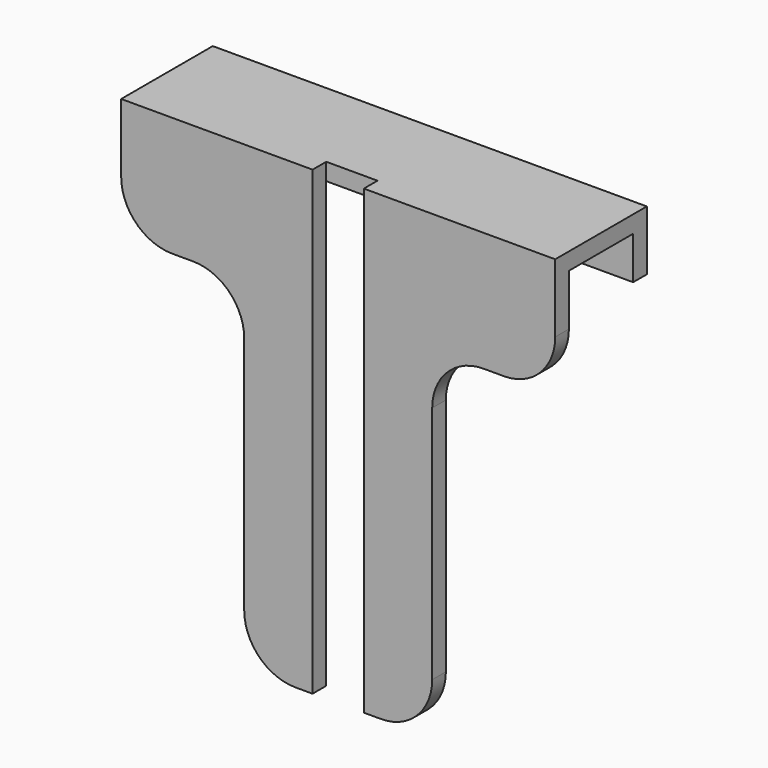
from build123d import *

# Parameters (mm, degrees)
F1_DEPTH = 12.7
F2_W     = 3
F2_H     = 27
F2_W_2   = 7.2
F2_H_2   = 20
F3_DEPTH = 1
F4_R     = 3


with BuildPart() as f1:
    # F0 (on Right) → F1 (new body, symmetric)
    with BuildSketch(Plane.YZ):
        Polygon((6.7, 0), (0, 0), (0, -27), (1, -27), (1, -1), (5.7, -1), (5.7, -3.5), (6.7, -3.5), align=None)
    extrude(amount=F1_DEPTH, both=True)

    # F2 (on face) → F3 (cut, through all)
    with BuildSketch(Plane.XZ):
        with Locations((0, -13.5)):
            Rectangle(F2_W, F2_H)
        with Locations((-9.1, -17)):
            Rectangle(F2_W_2, F2_H_2)
        with Locations((9.1, -17)):
            Rectangle(F2_W_2, F2_H_2)
    extrude(amount=-F3_DEPTH, mode=Mode.SUBTRACT)

    # F4
    f4_edges = [f1.edges().sort_by_distance(p)[0] for p in [
        (5.5, 0.5, -27),
        (-5.5, 0.5, -27),
        (-5.5, 0.5, -7),
        (-12.7, 0.5, -7),
        (5.5, 0.5, -7),
        (12.7, 0.5, -7),
    ]]
    fillet(f4_edges, radius=F4_R)


solid = f1.part
